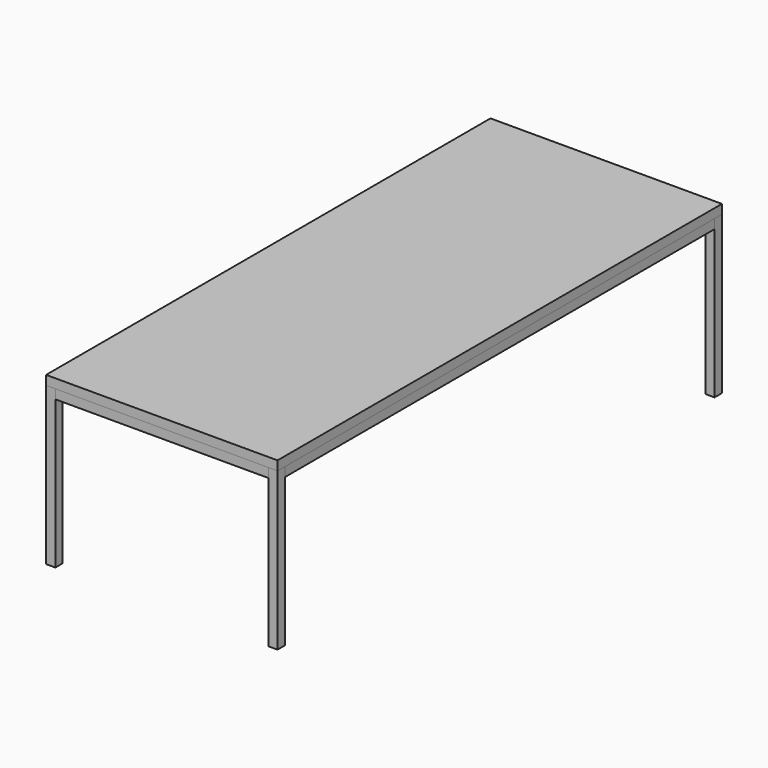
from build123d import *

# Parameters (mm, degrees)
F0_W      = 40
F0_H      = 40
F1_DEPTH  = 680
F2_W      = 40
F2_H      = 40
F3_W      = 40
F3_H      = 40
F4_DEPTH  = 2320
F5_W      = 40
F5_H      = 40
F6_W      = 40
F6_H      = 40
F7_W      = 40
F7_H      = 40
F8_DEPTH  = 920
F9_W      = 1000
F9_H      = 40
F10_DEPTH = 2400


with BuildPart() as f1:
    # F0 (on Top) → F1 (new body)
    with BuildSketch(Plane.XY):
        with Locations((20, 20)):
            Rectangle(F0_W, F0_H)
        with Locations((980, 20)):
            Rectangle(F0_W, F0_H)
        with Locations((20, 2380)):
            Rectangle(F0_W, F0_H)
        with Locations((980, 2380)):
            Rectangle(F0_W, F0_H)
    extrude(amount=F1_DEPTH)


with BuildPart() as f4:
    # F2 (on face) + F3 (on face) → F4 (new body)
    with BuildSketch(Plane(origin=(0, 40, 0), x_dir=(-1, 0, 0), z_dir=(0, 1, 0))):
        with Locations((-20, 660)):
            Rectangle(F2_W, F2_H)
    with BuildSketch(Plane(origin=(0, 40, 0), x_dir=(-1, 0, 0), z_dir=(0, 1, 0))):
        with Locations((-980, 660)):
            Rectangle(F3_W, F3_H)
    extrude(amount=F4_DEPTH)


with BuildPart() as f8:
    # F5 (on face) + F6 (on face) + F7 (on face) → F8 (new body)
    with BuildSketch(Plane.YZ.offset(40)):
        with Locations((20, 660)):
            Rectangle(F5_W, F5_H)
    with BuildSketch(Plane.YZ.offset(40)):
        with Locations((1200, 660)):
            Rectangle(F6_W, F6_H)
    with BuildSketch(Plane.YZ.offset(40)):
        with Locations((2380, 660)):
            Rectangle(F7_W, F7_H)
    extrude(amount=F8_DEPTH)


with BuildPart() as f10:
    # F9 (on Front) → F10 (new body)
    with BuildSketch(Plane.XZ):
        with Locations((500, 700)):
            Rectangle(F9_W, F9_H)
    extrude(amount=-F10_DEPTH)


solid = Compound([f1.part, f4.part, f8.part, f10.part])
